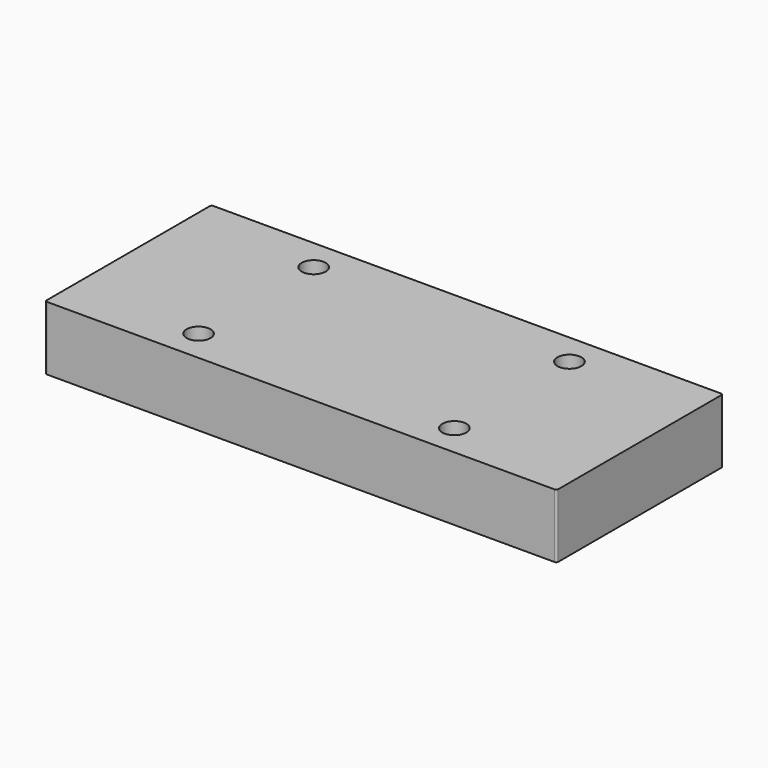
from build123d import *

# Parameters (mm, degrees)
F0_R     = 4.7625
F1_DEPTH = 25.4


with BuildPart() as f1:
    # F0 (on Top) → F1 (new body)
    with BuildSketch(Plane.XY):
        with BuildLine():
            Line((151.638, 12.7), (-50.038, 12.7))
            ThreePointArc((-50.038, 12.7), (-50.576815, 12.476815), (-50.8, 11.938))
            Line((-50.8, 11.938), (-50.8, -69.088))
            ThreePointArc((-50.8, -69.088), (-50.576815, -69.626815), (-50.038, -69.85))
            Line((-50.038, -69.85), (151.638, -69.85))
            ThreePointArc((151.638, -69.85), (152.176815, -69.626815), (152.4, -69.088))
            Line((152.4, -69.088), (152.4, 11.938))
            ThreePointArc((152.4, 11.938), (152.176815, 12.476815), (151.638, 12.7))
        make_face()
        with Locations((0, -57.15)):
            Circle(F0_R, mode=Mode.SUBTRACT)
        with Locations((101.6, -57.15)):
            Circle(F0_R, mode=Mode.SUBTRACT)
        Circle(F0_R, mode=Mode.SUBTRACT)
        with Locations((101.6, 0)):
            Circle(F0_R, mode=Mode.SUBTRACT)
    extrude(amount=F1_DEPTH)


solid = f1.part
